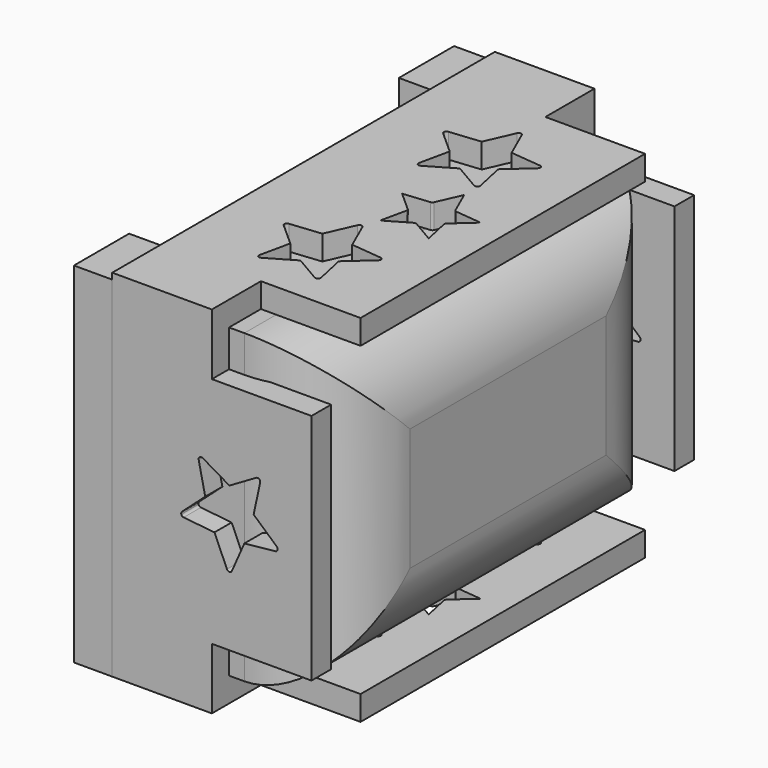
from build123d import *

# Parameters (mm, degrees)
BOX006_W                   = 2.5
BOX006_H                   = 2.25
BOX006_DEPTH               = 11.4
BOX007_W                   = 2.5
BOX007_H                   = 2.25
BOX007_DEPTH               = 11.4
BOX009_W                   = 4
BOX009_H                   = 2
BOX009_DEPTH               = 2
BOX010_W                   = 4
BOX010_H                   = 2
BOX010_DEPTH               = 2
BOX011_W                   = 4
BOX011_H                   = 2
BOX011_DEPTH               = 2
BOX008_W                   = 4
BOX008_H                   = 2
BOX008_DEPTH               = 2
EXTRUDE002_DEPTH           = 20
EXTRUDE003_DEPTH           = 20
EXTRUDE_DEPTH              = 20
EXTRUDE_PLACEMENT_ANGLE    = 90
EXTRUDE004_DEPTH           = 20
EXTRUDE001_DEPTH           = 20
EXTRUDE001_PLACEMENT_ANGLE = 90
BOX004_W                   = 8
BOX004_H                   = 11
BOX004_DEPTH               = 8
BOX002_W                   = 5.75
BOX002_H                   = 14
BOX002_DEPTH               = 10
BOX_W                      = 6.5
BOX_H                      = 15.6
BOX_DEPTH                  = 11.6
BOX012_W                   = 5
BOX012_H                   = 14
BOX012_DEPTH               = 10
FILLET_R                   = 3


with BuildPart() as cube006:
    # Box006 → Box006 (new body)
    with BuildSketch(Plane(origin=(9, -7.5, -6.5), x_dir=(1, 0, 0), z_dir=(0, 0, 1))):
        with Locations((1.25, 1.125)):
            Rectangle(BOX006_W, BOX006_H)
    extrude(amount=BOX006_DEPTH)


with BuildPart() as cube007:
    # Box007 → Box007 (new body)
    with BuildSketch(Plane(origin=(9, 5.75, -6.5), x_dir=(1, 0, 0), z_dir=(0, 0, 1))):
        with Locations((1.25, 1.125)):
            Rectangle(BOX007_W, BOX007_H)
    extrude(amount=BOX007_DEPTH)


with BuildPart() as cube009:
    # Box009 → Box009 (new body)
    with BuildSketch(Plane(origin=(13.5, -7.5, 3.1), x_dir=(1, 0, 0), z_dir=(0, 0, 1))):
        with Locations((2, 1)):
            Rectangle(BOX009_W, BOX009_H)
    extrude(amount=BOX009_DEPTH)


with BuildPart() as cube010:
    # Box010 → Box010 (new body)
    with BuildSketch(Plane(origin=(13.5, -7.5, -6.5), x_dir=(1, 0, 0), z_dir=(0, 0, 1))):
        with Locations((2, 1)):
            Rectangle(BOX010_W, BOX010_H)
    extrude(amount=BOX010_DEPTH)


with BuildPart() as cube011:
    # Box011 → Box011 (new body)
    with BuildSketch(Plane(origin=(13.5, 6.1, -6.5), x_dir=(1, 0, 0), z_dir=(0, 0, 1))):
        with Locations((2, 1)):
            Rectangle(BOX011_W, BOX011_H)
    extrude(amount=BOX011_DEPTH)


with BuildPart() as cube008:
    # Box008 → Box008 (new body)
    with BuildSketch(Plane(origin=(13.5, 6.1, 3.1), x_dir=(1, 0, 0), z_dir=(0, 0, 1))):
        with Locations((2, 1)):
            Rectangle(BOX008_W, BOX008_H)
    extrude(amount=BOX008_DEPTH)


with BuildPart() as extrude002:
    # path118001 → Extrude002 (new body)
    with BuildSketch(Plane(origin=(1.572743, -1.50109, 0), x_dir=(0, 1, 0), z_dir=(0, 0, 1))):
        with BuildLine():
            add(Edge.make_bspline(
                [(0.361559, -1.568464), (0.394415, -1.557745), (0.41786, -1.528721), (0.421521, -1.494384)],
                knots=[0, 0, 0, 0, 1, 1, 1, 1], degree=3))
            add(Edge.make_bspline(
                [(0.421521, -1.494384), (0.523664, -0.487848)],
                knots=[0, 0, 1.755065, 1.755065], degree=1))
            add(Edge.make_bspline(
                [(0.523664, -0.487848), (1.449147, -0.079708)],
                knots=[0, 0, 1.754679, 1.754679], degree=1))
            add(Edge.make_bspline(
                [(1.449147, -0.079708), (1.480522, -0.065764), (1.50109, -0.034475), (1.50109, 3.8e-05)],
                knots=[0, 0, 0, 0, 1, 1, 1, 1], degree=3))
            add(Edge.make_bspline(
                [(1.50109, 3.8e-05), (1.50109, 0.034551), (1.480697, 0.065838), (1.448973, 0.079782)],
                knots=[0, 0, 0, 0, 1, 1, 1, 1], degree=3))
            add(Edge.make_bspline(
                [(1.448973, 0.079782), (0.523577, 0.48801)],
                knots=[0, 0, 1.754602, 1.754602], degree=1))
            add(Edge.make_bspline(
                [(0.523577, 0.48801), (0.421521, 1.494371)],
                knots=[0, 0, 1.754749, 1.754749], degree=1))
            add(Edge.make_bspline(
                [(0.421521, 1.494371), (0.418033, 1.528709), (0.394328, 1.557819), (0.361559, 1.568451)],
                knots=[0, 0, 0, 0, 1, 1, 1, 1], degree=3))
            add(Edge.make_bspline(
                [(0.361559, 1.568451), (0.328702, 1.579171), (0.29262, 1.56941), (0.269611, 1.543613)],
                knots=[0, 0, 0, 0, 1, 1, 1, 1], degree=3))
            add(Edge.make_bspline(
                [(0.269611, 1.543613), (-0.404783, 0.789561)],
                knots=[0, 0, 1.75494, 1.75494], degree=1))
            add(Edge.make_bspline(
                [(-0.404783, 0.789561), (-1.393365, 1.003348)],
                knots=[0, 0, 1.754595, 1.754595], degree=1))
            add(Edge.make_bspline(
                [(-1.393365, 1.003348), (-1.427093, 1.010582), (-1.461954, 0.997335), (-1.482262, 0.969358)],
                knots=[0, 0, 0, 0, 1, 1, 1, 1], degree=3))
            add(Edge.make_bspline(
                [(-1.482262, 0.969358), (-1.493331, 0.954106), (-1.49891, 0.936153), (-1.49891, 0.918112)],
                knots=[0, 0, 0, 0, 1, 1, 1, 1], degree=3))
            add(Edge.make_bspline(
                [(-1.49891, 0.918112), (-1.49891, 0.903034), (-1.494984, 0.88787), (-1.48697, 0.874274)],
                knots=[0, 0, 0, 0, 1, 1, 1, 1], degree=3))
            add(Edge.make_bspline(
                [(-1.48697, 0.874274), (-0.977996, -5e-05)],
                knots=[0, 0, 1.755022, 1.755022], degree=1))
            add(Edge.make_bspline(
                [(-0.977996, -5e-05), (-1.486972, -0.874199)],
                knots=[0, 0, 1.754762, 1.754762], degree=1))
            add(Edge.make_bspline(
                [(-1.486972, -0.874199), (-1.504143, -0.904006), (-1.50248, -0.941307), (-1.481836, -0.969284)],
                knots=[0, 0, 0, 0, 1, 1, 1, 1], degree=3))
            add(Edge.make_bspline(
                [(-1.481836, -0.969284), (-1.461878, -0.997173), (-1.426668, -1.010595), (-1.392939, -1.003361)],
                knots=[0, 0, 0, 0, 1, 1, 1, 1], degree=3))
            add(Edge.make_bspline(
                [(-1.392939, -1.003361), (-0.404267, -0.789574)],
                knots=[0, 0, 1.754748, 1.754748], degree=1))
            add(Edge.make_bspline(
                [(-0.404267, -0.789574), (0.27004, -1.543712)],
                knots=[0, 0, 1.75495, 1.75495], degree=1))
            add(Edge.make_bspline(
                [(0.27004, -1.543712), (0.2927, -1.569336), (0.328782, -1.579184), (0.361551, -1.568463)],
                knots=[0, 0, 0, 0, 1, 1, 1, 1], degree=3))
            add(Edge.make_bspline(
                [(0.361551, -1.568463), (0.361559, -1.568464)],
                knots=[0, 0, 1.2e-05, 1.2e-05], degree=1))
        make_face()
    extrude(amount=EXTRUDE002_DEPTH)


with BuildPart() as extrude002_1:
    # Extrude002 placement: moved
    add(extrude002.part.moved(Location((12, 5, -10))))


with BuildPart() as extrude003:
    # path118002 → Extrude003 (new body)
    with BuildSketch(Plane(origin=(1.572575, -1.520654, 0), x_dir=(0, -1, 0), z_dir=(0, 0, -1))):
        with BuildLine():
            add(Edge.make_bspline(
                [(0.289, -0.635566), (0.309917, -0.612209), (0.341729, -0.601839), (0.372407, -0.608463)],
                knots=[0, 0, 0, 0, 1, 1, 1, 1], degree=3))
            add(Edge.make_bspline(
                [(0.372407, -0.608463), (1.21736, -0.791223)],
                knots=[0, 0, 1.499686, 1.499686], degree=1))
            add(Edge.make_bspline(
                [(1.21736, -0.791223), (0.782464, -0.043969)],
                knots=[0, 0, 1.499864, 1.499864], degree=1))
            add(Edge.make_bspline(
                [(0.782464, -0.043969), (0.766602, -0.016865), (0.766602, 0.016603), (0.782464, 0.043707)],
                knots=[0, 0, 0, 0, 1, 1, 1, 1], degree=3))
            add(Edge.make_bspline(
                [(0.782464, 0.043707), (1.21736, 0.791136)],
                knots=[0, 0, 1.500125, 1.500125], degree=1))
            add(Edge.make_bspline(
                [(1.21736, 0.791136), (0.372407, 0.608375)],
                knots=[0, 0, 1.499687, 1.499687], degree=1))
            add(Edge.make_bspline(
                [(0.372407, 0.608375), (0.341729, 0.601751), (0.309917, 0.612126), (0.289, 0.63548)],
                knots=[0, 0, 0, 0, 1, 1, 1, 1], degree=3))
            add(Edge.make_bspline(
                [(0.289, 0.63548), (-0.287345, 1.280067)],
                knots=[0, 0, 1.500007, 1.500007], degree=1))
            add(Edge.make_bspline(
                [(-0.287345, 1.280067), (-0.374672, 0.419861)],
                knots=[0, 0, 1.499919, 1.499919], degree=1))
            add(Edge.make_bspline(
                [(-0.374672, 0.419861), (-0.377722, 0.388661), (-0.397681, 0.361644), (-0.426268, 0.348919)],
                knots=[0, 0, 0, 0, 1, 1, 1, 1], degree=3))
            add(Edge.make_bspline(
                [(-0.426268, 0.348919), (-1.21736, -4.3e-05)],
                knots=[0, 0, 1.499942, 1.499942], degree=1))
            add(Edge.make_bspline(
                [(-1.21736, -4.3e-05), (-0.426268, -0.348919)],
                knots=[0, 0, 1.499882, 1.499882], degree=1))
            add(Edge.make_bspline(
                [(-0.426268, -0.348919), (-0.397681, -0.361645), (-0.377724, -0.388661), (-0.374672, -0.419863)],
                knots=[0, 0, 0, 0, 1, 1, 1, 1], degree=3))
            add(Edge.make_bspline(
                [(-0.374672, -0.419863), (-0.287345, -1.280067)],
                knots=[0, 0, 1.499917, 1.499917], degree=1))
            add(Edge.make_bspline(
                [(-0.287345, -1.280067), (0.289, -0.635566)],
                knots=[0, 0, 1.499895, 1.499895], degree=1))
        make_face()
    extrude(amount=EXTRUDE003_DEPTH)


with BuildPart() as extrude003_1:
    # Extrude003 placement: moved
    add(extrude003.part.moved(Location((13, 1.75, 7))))


with BuildPart() as extrude_body:
    # path118 → Extrude (new body)
    with BuildSketch(Plane(origin=(1.572743, -1.50109, 0), x_dir=(0, 1, 0), z_dir=(0, 0, 1))):
        with BuildLine():
            add(Edge.make_bspline(
                [(0.361559, -1.568464), (0.394415, -1.557745), (0.41786, -1.528721), (0.421521, -1.494384)],
                knots=[0, 0, 0, 0, 1, 1, 1, 1], degree=3))
            add(Edge.make_bspline(
                [(0.421521, -1.494384), (0.523664, -0.487848)],
                knots=[0, 0, 1.755065, 1.755065], degree=1))
            add(Edge.make_bspline(
                [(0.523664, -0.487848), (1.449147, -0.079708)],
                knots=[0, 0, 1.754679, 1.754679], degree=1))
            add(Edge.make_bspline(
                [(1.449147, -0.079708), (1.480522, -0.065764), (1.50109, -0.034475), (1.50109, 3.8e-05)],
                knots=[0, 0, 0, 0, 1, 1, 1, 1], degree=3))
            add(Edge.make_bspline(
                [(1.50109, 3.8e-05), (1.50109, 0.034551), (1.480697, 0.065838), (1.448973, 0.079782)],
                knots=[0, 0, 0, 0, 1, 1, 1, 1], degree=3))
            add(Edge.make_bspline(
                [(1.448973, 0.079782), (0.523577, 0.48801)],
                knots=[0, 0, 1.754602, 1.754602], degree=1))
            add(Edge.make_bspline(
                [(0.523577, 0.48801), (0.421521, 1.494371)],
                knots=[0, 0, 1.754749, 1.754749], degree=1))
            add(Edge.make_bspline(
                [(0.421521, 1.494371), (0.418033, 1.528709), (0.394328, 1.557819), (0.361559, 1.568451)],
                knots=[0, 0, 0, 0, 1, 1, 1, 1], degree=3))
            add(Edge.make_bspline(
                [(0.361559, 1.568451), (0.328702, 1.579171), (0.29262, 1.56941), (0.269611, 1.543613)],
                knots=[0, 0, 0, 0, 1, 1, 1, 1], degree=3))
            add(Edge.make_bspline(
                [(0.269611, 1.543613), (-0.404783, 0.789561)],
                knots=[0, 0, 1.75494, 1.75494], degree=1))
            add(Edge.make_bspline(
                [(-0.404783, 0.789561), (-1.393365, 1.003348)],
                knots=[0, 0, 1.754595, 1.754595], degree=1))
            add(Edge.make_bspline(
                [(-1.393365, 1.003348), (-1.427093, 1.010582), (-1.461954, 0.997335), (-1.482262, 0.969358)],
                knots=[0, 0, 0, 0, 1, 1, 1, 1], degree=3))
            add(Edge.make_bspline(
                [(-1.482262, 0.969358), (-1.493331, 0.954106), (-1.49891, 0.936153), (-1.49891, 0.918112)],
                knots=[0, 0, 0, 0, 1, 1, 1, 1], degree=3))
            add(Edge.make_bspline(
                [(-1.49891, 0.918112), (-1.49891, 0.903034), (-1.494984, 0.88787), (-1.48697, 0.874274)],
                knots=[0, 0, 0, 0, 1, 1, 1, 1], degree=3))
            add(Edge.make_bspline(
                [(-1.48697, 0.874274), (-0.977996, -5e-05)],
                knots=[0, 0, 1.755022, 1.755022], degree=1))
            add(Edge.make_bspline(
                [(-0.977996, -5e-05), (-1.486972, -0.874199)],
                knots=[0, 0, 1.754762, 1.754762], degree=1))
            add(Edge.make_bspline(
                [(-1.486972, -0.874199), (-1.504143, -0.904006), (-1.50248, -0.941307), (-1.481836, -0.969284)],
                knots=[0, 0, 0, 0, 1, 1, 1, 1], degree=3))
            add(Edge.make_bspline(
                [(-1.481836, -0.969284), (-1.461878, -0.997173), (-1.426668, -1.010595), (-1.392939, -1.003361)],
                knots=[0, 0, 0, 0, 1, 1, 1, 1], degree=3))
            add(Edge.make_bspline(
                [(-1.392939, -1.003361), (-0.404267, -0.789574)],
                knots=[0, 0, 1.754748, 1.754748], degree=1))
            add(Edge.make_bspline(
                [(-0.404267, -0.789574), (0.27004, -1.543712)],
                knots=[0, 0, 1.75495, 1.75495], degree=1))
            add(Edge.make_bspline(
                [(0.27004, -1.543712), (0.2927, -1.569336), (0.328782, -1.579184), (0.361551, -1.568463)],
                knots=[0, 0, 0, 0, 1, 1, 1, 1], degree=3))
            add(Edge.make_bspline(
                [(0.361551, -1.568463), (0.361559, -1.568464)],
                knots=[0, 0, 1.2e-05, 1.2e-05], degree=1))
        make_face()
    extrude(amount=EXTRUDE_DEPTH)


with BuildPart() as extrude_body_1:
    # Extrude placement: moved
    add(extrude_body.part.moved(Location((19, 1, -0.75))).rotate(Axis((19, 1, -0.75), (-1, 0, 0)), EXTRUDE_PLACEMENT_ANGLE))


with BuildPart() as extrude004:
    # path118003 → Extrude004 (new body)
    with BuildSketch(Plane(origin=(1.572743, -1.50109, 0), x_dir=(0, 1, 0), z_dir=(0, 0, 1))):
        with BuildLine():
            add(Edge.make_bspline(
                [(0.361559, -1.568464), (0.394415, -1.557745), (0.41786, -1.528721), (0.421521, -1.494384)],
                knots=[0, 0, 0, 0, 1, 1, 1, 1], degree=3))
            add(Edge.make_bspline(
                [(0.421521, -1.494384), (0.523664, -0.487848)],
                knots=[0, 0, 1.755065, 1.755065], degree=1))
            add(Edge.make_bspline(
                [(0.523664, -0.487848), (1.449147, -0.079708)],
                knots=[0, 0, 1.754679, 1.754679], degree=1))
            add(Edge.make_bspline(
                [(1.449147, -0.079708), (1.480522, -0.065764), (1.50109, -0.034475), (1.50109, 3.8e-05)],
                knots=[0, 0, 0, 0, 1, 1, 1, 1], degree=3))
            add(Edge.make_bspline(
                [(1.50109, 3.8e-05), (1.50109, 0.034551), (1.480697, 0.065838), (1.448973, 0.079782)],
                knots=[0, 0, 0, 0, 1, 1, 1, 1], degree=3))
            add(Edge.make_bspline(
                [(1.448973, 0.079782), (0.523577, 0.48801)],
                knots=[0, 0, 1.754602, 1.754602], degree=1))
            add(Edge.make_bspline(
                [(0.523577, 0.48801), (0.421521, 1.494371)],
                knots=[0, 0, 1.754749, 1.754749], degree=1))
            add(Edge.make_bspline(
                [(0.421521, 1.494371), (0.418033, 1.528709), (0.394328, 1.557819), (0.361559, 1.568451)],
                knots=[0, 0, 0, 0, 1, 1, 1, 1], degree=3))
            add(Edge.make_bspline(
                [(0.361559, 1.568451), (0.328702, 1.579171), (0.29262, 1.56941), (0.269611, 1.543613)],
                knots=[0, 0, 0, 0, 1, 1, 1, 1], degree=3))
            add(Edge.make_bspline(
                [(0.269611, 1.543613), (-0.404783, 0.789561)],
                knots=[0, 0, 1.75494, 1.75494], degree=1))
            add(Edge.make_bspline(
                [(-0.404783, 0.789561), (-1.393365, 1.003348)],
                knots=[0, 0, 1.754595, 1.754595], degree=1))
            add(Edge.make_bspline(
                [(-1.393365, 1.003348), (-1.427093, 1.010582), (-1.461954, 0.997335), (-1.482262, 0.969358)],
                knots=[0, 0, 0, 0, 1, 1, 1, 1], degree=3))
            add(Edge.make_bspline(
                [(-1.482262, 0.969358), (-1.493331, 0.954106), (-1.49891, 0.936153), (-1.49891, 0.918112)],
                knots=[0, 0, 0, 0, 1, 1, 1, 1], degree=3))
            add(Edge.make_bspline(
                [(-1.49891, 0.918112), (-1.49891, 0.903034), (-1.494984, 0.88787), (-1.48697, 0.874274)],
                knots=[0, 0, 0, 0, 1, 1, 1, 1], degree=3))
            add(Edge.make_bspline(
                [(-1.48697, 0.874274), (-0.977996, -5e-05)],
                knots=[0, 0, 1.755022, 1.755022], degree=1))
            add(Edge.make_bspline(
                [(-0.977996, -5e-05), (-1.486972, -0.874199)],
                knots=[0, 0, 1.754762, 1.754762], degree=1))
            add(Edge.make_bspline(
                [(-1.486972, -0.874199), (-1.504143, -0.904006), (-1.50248, -0.941307), (-1.481836, -0.969284)],
                knots=[0, 0, 0, 0, 1, 1, 1, 1], degree=3))
            add(Edge.make_bspline(
                [(-1.481836, -0.969284), (-1.461878, -0.997173), (-1.426668, -1.010595), (-1.392939, -1.003361)],
                knots=[0, 0, 0, 0, 1, 1, 1, 1], degree=3))
            add(Edge.make_bspline(
                [(-1.392939, -1.003361), (-0.404267, -0.789574)],
                knots=[0, 0, 1.754748, 1.754748], degree=1))
            add(Edge.make_bspline(
                [(-0.404267, -0.789574), (0.27004, -1.543712)],
                knots=[0, 0, 1.75495, 1.75495], degree=1))
            add(Edge.make_bspline(
                [(0.27004, -1.543712), (0.2927, -1.569336), (0.328782, -1.579184), (0.361551, -1.568463)],
                knots=[0, 0, 0, 0, 1, 1, 1, 1], degree=3))
            add(Edge.make_bspline(
                [(0.361551, -1.568463), (0.361559, -1.568464)],
                knots=[0, 0, 1.2e-05, 1.2e-05], degree=1))
        make_face()
    extrude(amount=EXTRUDE004_DEPTH)


with BuildPart() as extrude004_1:
    # Extrude004 placement: moved
    add(extrude004.part.moved(Location((12, -1.5, -10))))


with BuildPart() as extrude001:
    # path119 → Extrude001 (new body)
    with BuildSketch(Plane(origin=(1.572743, -1.50109, 0), x_dir=(0, 1, 0), z_dir=(0, 0, 1))):
        with BuildLine():
            add(Edge.make_bspline(
                [(0.361559, -1.568464), (0.394415, -1.557745), (0.41786, -1.528721), (0.421521, -1.494384)],
                knots=[0, 0, 0, 0, 1, 1, 1, 1], degree=3))
            add(Edge.make_bspline(
                [(0.421521, -1.494384), (0.523664, -0.487848)],
                knots=[0, 0, 1.755065, 1.755065], degree=1))
            add(Edge.make_bspline(
                [(0.523664, -0.487848), (1.449147, -0.079708)],
                knots=[0, 0, 1.754679, 1.754679], degree=1))
            add(Edge.make_bspline(
                [(1.449147, -0.079708), (1.480522, -0.065764), (1.50109, -0.034475), (1.50109, 3.8e-05)],
                knots=[0, 0, 0, 0, 1, 1, 1, 1], degree=3))
            add(Edge.make_bspline(
                [(1.50109, 3.8e-05), (1.50109, 0.034551), (1.480697, 0.065838), (1.448973, 0.079782)],
                knots=[0, 0, 0, 0, 1, 1, 1, 1], degree=3))
            add(Edge.make_bspline(
                [(1.448973, 0.079782), (0.523577, 0.48801)],
                knots=[0, 0, 1.754602, 1.754602], degree=1))
            add(Edge.make_bspline(
                [(0.523577, 0.48801), (0.421521, 1.494371)],
                knots=[0, 0, 1.754749, 1.754749], degree=1))
            add(Edge.make_bspline(
                [(0.421521, 1.494371), (0.418033, 1.528709), (0.394328, 1.557819), (0.361559, 1.568451)],
                knots=[0, 0, 0, 0, 1, 1, 1, 1], degree=3))
            add(Edge.make_bspline(
                [(0.361559, 1.568451), (0.328702, 1.579171), (0.29262, 1.56941), (0.269611, 1.543613)],
                knots=[0, 0, 0, 0, 1, 1, 1, 1], degree=3))
            add(Edge.make_bspline(
                [(0.269611, 1.543613), (-0.404783, 0.789561)],
                knots=[0, 0, 1.75494, 1.75494], degree=1))
            add(Edge.make_bspline(
                [(-0.404783, 0.789561), (-1.393365, 1.003348)],
                knots=[0, 0, 1.754595, 1.754595], degree=1))
            add(Edge.make_bspline(
                [(-1.393365, 1.003348), (-1.427093, 1.010582), (-1.461954, 0.997335), (-1.482262, 0.969358)],
                knots=[0, 0, 0, 0, 1, 1, 1, 1], degree=3))
            add(Edge.make_bspline(
                [(-1.482262, 0.969358), (-1.493331, 0.954106), (-1.49891, 0.936153), (-1.49891, 0.918112)],
                knots=[0, 0, 0, 0, 1, 1, 1, 1], degree=3))
            add(Edge.make_bspline(
                [(-1.49891, 0.918112), (-1.49891, 0.903034), (-1.494984, 0.88787), (-1.48697, 0.874274)],
                knots=[0, 0, 0, 0, 1, 1, 1, 1], degree=3))
            add(Edge.make_bspline(
                [(-1.48697, 0.874274), (-0.977996, -5e-05)],
                knots=[0, 0, 1.755022, 1.755022], degree=1))
            add(Edge.make_bspline(
                [(-0.977996, -5e-05), (-1.486972, -0.874199)],
                knots=[0, 0, 1.754762, 1.754762], degree=1))
            add(Edge.make_bspline(
                [(-1.486972, -0.874199), (-1.504143, -0.904006), (-1.50248, -0.941307), (-1.481836, -0.969284)],
                knots=[0, 0, 0, 0, 1, 1, 1, 1], degree=3))
            add(Edge.make_bspline(
                [(-1.481836, -0.969284), (-1.461878, -0.997173), (-1.426668, -1.010595), (-1.392939, -1.003361)],
                knots=[0, 0, 0, 0, 1, 1, 1, 1], degree=3))
            add(Edge.make_bspline(
                [(-1.392939, -1.003361), (-0.404267, -0.789574)],
                knots=[0, 0, 1.754748, 1.754748], degree=1))
            add(Edge.make_bspline(
                [(-0.404267, -0.789574), (0.27004, -1.543712)],
                knots=[0, 0, 1.75495, 1.75495], degree=1))
            add(Edge.make_bspline(
                [(0.27004, -1.543712), (0.2927, -1.569336), (0.328782, -1.579184), (0.361551, -1.568463)],
                knots=[0, 0, 0, 0, 1, 1, 1, 1], degree=3))
            add(Edge.make_bspline(
                [(0.361551, -1.568463), (0.361559, -1.568464)],
                knots=[0, 0, 1.2e-05, 1.2e-05], degree=1))
        make_face()
    extrude(amount=EXTRUDE001_DEPTH)


with BuildPart() as extrude001_1:
    # Extrude001 placement: moved
    add(extrude001.part.moved(Location((12.5, -8, -2.25))).rotate(Axis((12.5, -8, -2.25), (-1, 0, 0)), EXTRUDE001_PLACEMENT_ANGLE))


with BuildPart() as cube004:
    # Box004 → Box004 (new body)
    with BuildSketch(Plane(origin=(11, -5.25, -4.75), x_dir=(1, 0, 0), z_dir=(0, 0, 1))):
        with Locations((4, 5.5)):
            Rectangle(BOX004_W, BOX004_H)
    extrude(amount=BOX004_DEPTH)


with BuildPart() as cube002:
    # Box002 → Box002 (new body)
    with BuildSketch(Plane(origin=(12, -6.7, -5.7), x_dir=(1, 0, 0), z_dir=(0, 0, 1))):
        with Locations((2.875, 7)):
            Rectangle(BOX002_W, BOX002_H)
    extrude(amount=BOX002_DEPTH)


with BuildPart() as obj1:
    # Box → Box (new body)
    with BuildSketch(Plane(origin=(10.5, -7.5, -6.5), x_dir=(1, 0, 0), z_dir=(0, 0, 1))):
        with Locations((3.25, 7.8)):
            Rectangle(BOX_W, BOX_H)
    extrude(amount=BOX_DEPTH)

    # Cut: cut Cube002
    add(cube002.part, mode=Mode.SUBTRACT)


with BuildPart() as obj1_1:
    # Cut placement: moved
    add(obj1.part.moved(Location((1, 0, 0))))

    # Cut001: cut Cube004
    add(cube004.part, mode=Mode.SUBTRACT)


with BuildPart() as obj1_2:
    # Cut001 placement: moved
    add(obj1_1.part.moved(Location((-1.25, 0, 0))))

    # Cut002: cut Extrude001
    add(extrude001_1.part, mode=Mode.SUBTRACT)

    # Cut003: cut Extrude004
    add(extrude004_1.part, mode=Mode.SUBTRACT)

    # Cut004: cut Extrude body
    add(extrude_body_1.part, mode=Mode.SUBTRACT)

    # Cut005: cut Extrude003
    add(extrude003_1.part, mode=Mode.SUBTRACT)

    # Cut006: cut Extrude002
    add(extrude002_1.part, mode=Mode.SUBTRACT)

    # Cut007: cut Cube008
    add(cube008.part, mode=Mode.SUBTRACT)

    # Cut008: cut Cube011
    add(cube011.part, mode=Mode.SUBTRACT)

    # Cut009: cut Cube010
    add(cube010.part, mode=Mode.SUBTRACT)

    # Cut010: cut Cube009
    add(cube009.part, mode=Mode.SUBTRACT)


with BuildPart() as obj2:
    # Box012 → Box012 (new body)
    with BuildSketch(Plane(origin=(12, -6.8, -5.7), x_dir=(1, 0, 0), z_dir=(0, 0, 1))):
        with Locations((2.5, 7)):
            Rectangle(BOX012_W, BOX012_H)
    extrude(amount=BOX012_DEPTH)

    # Fillet
    fillet_edges = [obj2.edges().sort_by_distance(p)[0] for p in [
        (17, -6.8, -0.7),
        (17, 0.2, 4.3),
        (17, 7.2, -0.7),
        (17, 0.2, -5.7),
    ]]
    fillet(fillet_edges, radius=FILLET_R)


solid = Compound([cube006.part, cube007.part, obj1_2.part, obj2.part])
